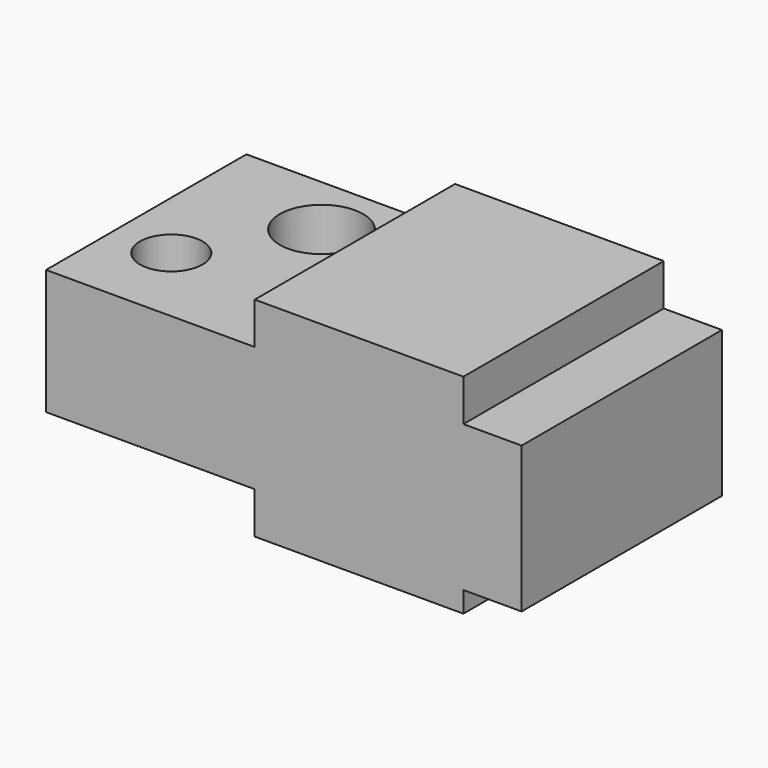
from build123d import *

# Parameters (mm, degrees)
F1_DEPTH = 76.2
F2_R     = 12.7
F2_R_2   = 9.525
F3_DEPTH = 38.1


with BuildPart() as f1:
    # F0 (on Front) → F1 (new body)
    with BuildSketch(Plane.XZ):
        Polygon((15.902453, 44.148796), (-47.597547, 44.148796), (-47.597547, 31.448796), (-111.097547, 31.448796), (-111.097547, -6.651204), (-47.597547, -6.651204), (-47.597547, -19.351204), (15.902453, -19.351204), (15.902453, -13.001204), (33.619731, -13.001204), (33.619731, 31.448796), (15.902453, 31.448796), align=None)
    extrude(amount=F1_DEPTH)

    # F2 (on face) → F3 (cut, through all)
    with BuildSketch(Plane.XY.offset(31.448796)):
        with Locations((-72.997547, -19.05)):
            Circle(F2_R)
        with Locations((-93.317547, -50.8)):
            Circle(F2_R_2)
    extrude(amount=-F3_DEPTH, mode=Mode.SUBTRACT)


solid = f1.part
